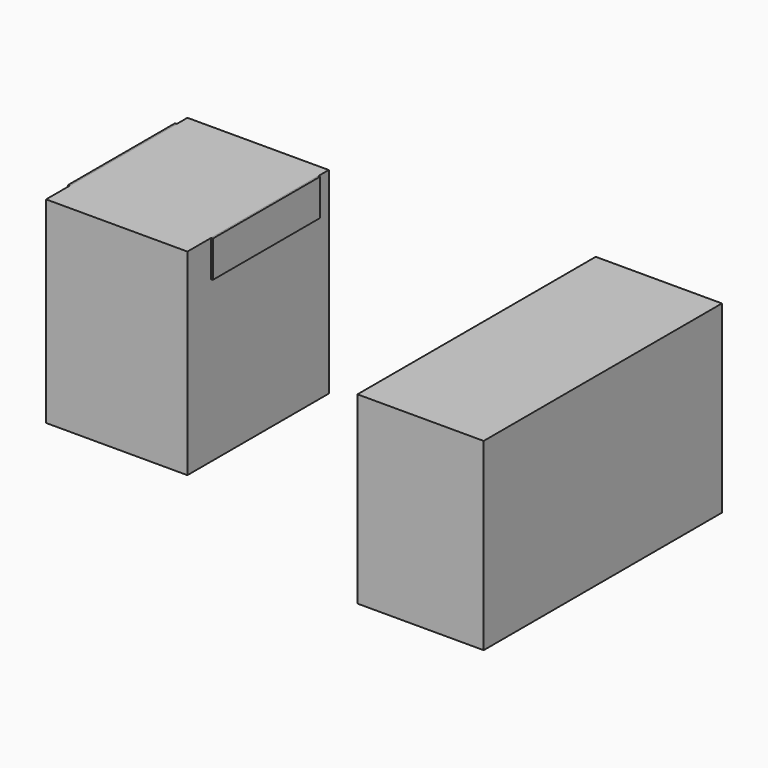
from build123d import *

# Parameters (mm, degrees)
F0_W     = 72.898
F0_H     = 67.31
F1_DEPTH = 18.3134
F2_W     = 71.12
F2_H     = 88.9
F3_DEPTH = 99.06
F4_W     = 63.5
F4_H     = 149.86
F5_DEPTH = 92.71


with BuildPart() as f1:
    # F0 (on Top) → F1 (new body)
    with BuildSketch(Plane.XY):
        with Locations((0, -3.902208)):
            Rectangle(F0_W, F0_H)
    extrude(amount=-F1_DEPTH)


with BuildPart() as f3:
    # F2 (on Top) → F3 (new body)
    with BuildSketch(Plane.XY):
        with Locations((0, -8.023981)):
            Rectangle(F2_W, F2_H)
    extrude(amount=-F3_DEPTH)


with BuildPart() as f5:
    # F4 (on Top) → F5 (new body)
    with BuildSketch(Plane.XY):
        with Locations((195.366524, -30.655906)):
            Rectangle(F4_W, F4_H)
    extrude(amount=-F5_DEPTH)


solid = Compound([f1.part, f3.part, f5.part])
